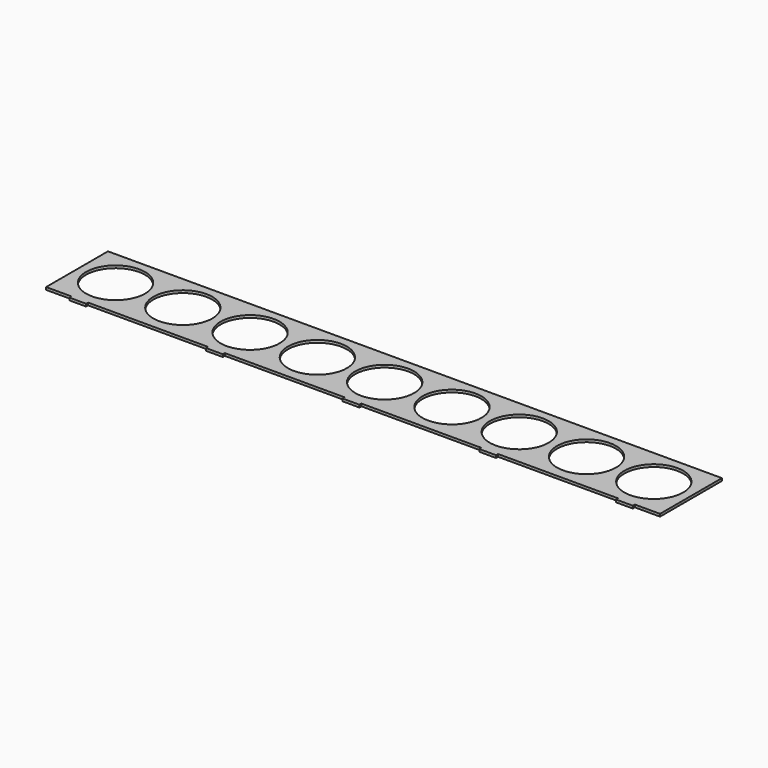
from build123d import *

# Parameters (mm, degrees)
F0_R     = 35
F1_DEPTH = 3


with BuildPart() as f1:
    # F0 (on Top) → F1 (new body)
    with BuildSketch(Plane.XY):
        Polygon((365, 99.130659), (-365, 99.130659), (-365, 7.130659), (-335, 7.130659), (-335, 4.130659), (-325, 4.130659), (-315, 4.130659), (-315, 7.130659), (-172.5, 7.130659), (-172.5, 4.130659), (-162.5, 4.130659), (-152.5, 4.130659), (-152.5, 7.130659), (-10, 7.130659), (-10, 4.130659), (0, 4.130659), (10, 4.130659), (10, 7.130659), (152.5, 7.130659), (152.5, 4.130659), (162.5, 4.130659), (172.5, 4.130659), (172.5, 7.130659), (315, 7.130659), (315, 4.130659), (325, 4.130659), (335, 4.130659), (335, 7.130659), (365, 7.130659), align=None)
        with Locations((-320, 54.130659)):
            Circle(F0_R, mode=Mode.SUBTRACT)
        with Locations((-240, 54.130659)):
            Circle(F0_R, mode=Mode.SUBTRACT)
        with Locations((-160, 54.130659)):
            Circle(F0_R, mode=Mode.SUBTRACT)
        with Locations((-80, 54.130659)):
            Circle(F0_R, mode=Mode.SUBTRACT)
        with Locations((0, 54.130659)):
            Circle(F0_R, mode=Mode.SUBTRACT)
        with Locations((80, 54.130659)):
            Circle(F0_R, mode=Mode.SUBTRACT)
        with Locations((160, 54.130659)):
            Circle(F0_R, mode=Mode.SUBTRACT)
        with Locations((240, 54.130659)):
            Circle(F0_R, mode=Mode.SUBTRACT)
        with Locations((320, 54.130659)):
            Circle(F0_R, mode=Mode.SUBTRACT)
    extrude(amount=F1_DEPTH)


solid = f1.part
